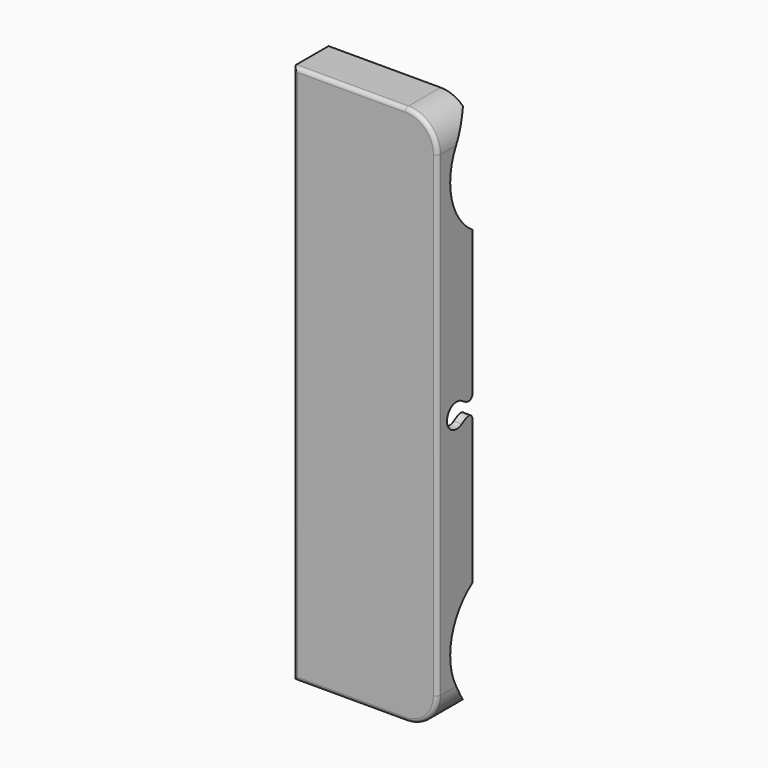
from build123d import *

# Parameters (mm, degrees)
F1_START = 10.5
F1_DEPTH = 5.5
F3_T     = -1
F2_W     = 0.5200189474
F2_H     = 2.8536078758
F2_R     = 8
F4_DEPTH = 19.751
F5_R     = 0.5
F6_W     = 6.25
F6_H     = 3
F7_DEPTH = 4.5


with BuildPart() as f1:
    # F0 (on Front) → F1 (new body)
    with BuildSketch(Plane.XZ.offset(F1_START)):
        with BuildLine():
            Line((19.75, -29.75), (19.75, 29.75))
            ThreePointArc((19.75, 29.75), (18.5784271247, 32.5784271247), (15.75, 33.75))
            Line((15.75, 33.75), (1.75, 33.75))
            Line((1.75, 33.75), (1.75, -33.75))
            Line((1.75, -33.75), (15.75, -33.75))
            ThreePointArc((15.75, -33.75), (18.5784271247, -32.5784271247), (19.75, -29.75))
        make_face()
    extrude(amount=F1_DEPTH)

    # F3
    f3_openings = [f1.faces().sort_by_distance(p)[0] for p in [
        (10.703921, -10.5, 0),
    ]]
    offset(amount=F3_T, openings=f3_openings)

    # F2 (on Right) → F4 (cut, through all)
    with BuildSketch(Plane.YZ):
        with BuildLine():
            ThreePointArc((-12.1998795433, -1.2687817995), (-11.686573054, -0.7245064923), (-11.5, 0))
            ThreePointArc((-11.5, 0), (-11.686573054, 0.7245064923), (-12.1998795433, 1.2687817995))
            ThreePointArc((-12.1998795433, 1.2687817995), (-14.5, 0), (-12.1998795433, -1.2687817995))
        make_face()
        with BuildLine():
            ThreePointArc((-12.1998795433, 1.2687817995), (-11.686573054, 0.7245064923), (-11.5, 0))
            ThreePointArc((-11.5, 0), (-11.686573054, -0.7245064923), (-12.1998795433, -1.2687817995))
            add(Edge.make_bspline(
                [(-10.5023607609, -1.4268039379), (-10.7281226665, -0.325174944), (-11.6522471595, -0.9234333139), (-12.1998795433, -1.2687817995)],
                knots=[0, 0, 0, 0, 1.7048580623, 1.7048580623, 1.7048580623, 1.7048580623], degree=3))
            Line((-10.5023607609, -1.4268039379), (-10.5023607609, 1.4268039379))
            add(Edge.make_bspline(
                [(-10.5023607609, 1.4268039379), (-10.7281226665, 0.325174944), (-11.6522471595, 0.9234333139), (-12.1998795433, 1.2687817995)],
                knots=[0, 0, 0, 0, 1.7048580623, 1.7048580623, 1.7048580623, 1.7048580623], degree=3))
        make_face()
        with Locations((-10.2423512872, 0)):
            Rectangle(F2_W, F2_H)
        with Locations((-6, -26)):
            Circle(F2_R)
        with Locations((-6, 26)):
            Circle(F2_R)
    extrude(amount=F4_DEPTH, mode=Mode.SUBTRACT)

    # F5
    f5_edges = [f1.edges().sort_by_distance(p)[0] for p in [
        (19.75, -16, 0),
        (18.578427, -16, 32.578427),
        (8.75, -16, 33.75),
        (1.75, -16, 0),
        (8.75, -16, -33.75),
        (18.578427, -16, -32.578427),
    ]]
    fillet(f5_edges, radius=F5_R)

    # F6 (on face) → F7 (join, through all)
    with BuildSketch(Plane(origin=(0, -10.5, 0), x_dir=(-1, 0, 0), z_dir=(0, 1, 0))):
        with Locations((-5.875, 4.5)):
            Rectangle(F6_W, F6_H)
    extrude(amount=-F7_DEPTH)


solid = f1.part
